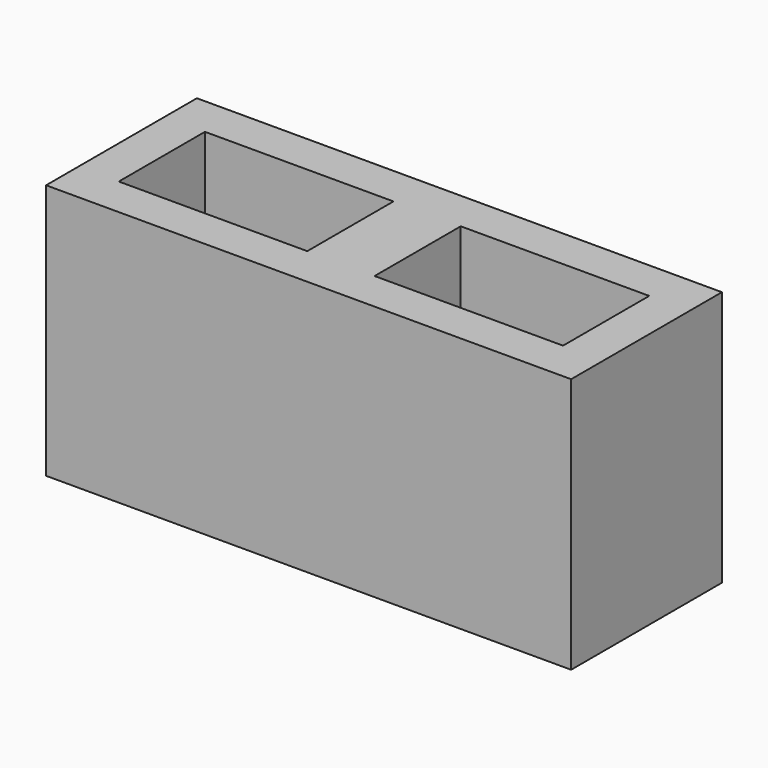
from build123d import *

# Parameters (mm, degrees)
BOX031_W     = 140
BOX031_H     = 80
BOX031_DEPTH = 190
BOX029_W     = 140
BOX029_H     = 80
BOX029_DEPTH = 190
BOX030_W     = 390
BOX030_H     = 140
BOX030_DEPTH = 190


with BuildPart() as cube021:
    # Box031 → Box031 (new body)
    with BuildSketch(Plane(origin=(220, 30, 0), x_dir=(1, 0, 0), z_dir=(0, 0, 1))):
        with Locations((70, 40)):
            Rectangle(BOX031_W, BOX031_H)
    extrude(amount=BOX031_DEPTH)


with BuildPart() as fusion009:
    # Box029 → Box029 (new body)
    with BuildSketch(Plane(origin=(30, 30, 0), x_dir=(1, 0, 0), z_dir=(0, 0, 1))):
        with Locations((70, 40)):
            Rectangle(BOX029_W, BOX029_H)
    extrude(amount=BOX029_DEPTH)

    # Fusion009: union Cube021
    add(cube021.part)


with BuildPart() as cut006:
    # Box030 → Box030 (new body)
    with BuildSketch(Plane.XY):
        with Locations((195, 70)):
            Rectangle(BOX030_W, BOX030_H)
    extrude(amount=BOX030_DEPTH)

    # Cut006: cut Fusion009
    add(fusion009.part, mode=Mode.SUBTRACT)


with BuildPart() as cut006_1:
    # Cut006 placement: moved
    add(cut006.part.moved(Location((630, -205, -390))))


solid = cut006_1.part
